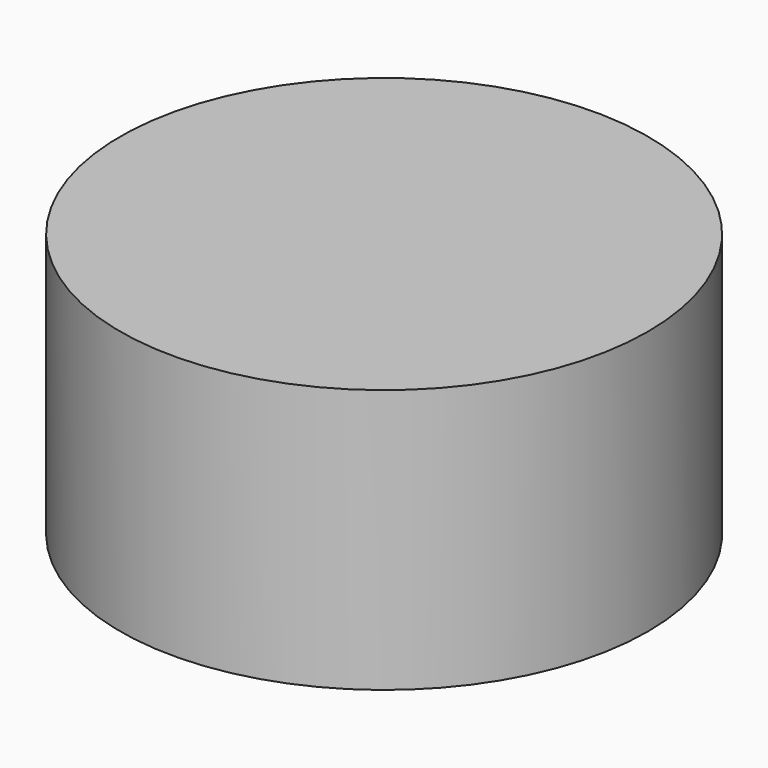
from build123d import *

# Parameters (mm, degrees)
CYLINDER_R      = 10
CYLINDER_DEPTH  = 8
POCKET_DEPTH    = 6
SKETCH001_R     = 10
PAD_DEPTH       = 2
SKETCH002_R     = 3.4
POCKET001_DEPTH = 2


with BuildPart() as part:
    # Cylinder → Cylinder (new body)
    with BuildSketch(Plane.XY):
        Circle(CYLINDER_R)
    extrude(amount=CYLINDER_DEPTH)

    # Sketch (on Face2 of BaseFeature) → Pocket (cut)
    with BuildSketch(Plane.XY.offset(8)):
        Polygon((3.32, -5.750409), (6.64, 0), (3.32, 5.750409), (-3.32, 5.750409), (-6.64, 0), (-3.32, -5.750409), align=None)
    extrude(amount=-POCKET_DEPTH, mode=Mode.SUBTRACT)

    # Sketch001 (on Face2 of Pocket) → Pad (join)
    with BuildSketch(Plane.XY.offset(8)):
        Circle(SKETCH001_R)
    extrude(amount=PAD_DEPTH)

    # Sketch002 (on Face3 of Pad) → Pocket001 (cut)
    with BuildSketch(Plane(origin=(0, 0, 0), x_dir=(1, 0, 0), z_dir=(0, 0, -1))):
        Circle(SKETCH002_R)
    extrude(amount=-POCKET001_DEPTH, mode=Mode.SUBTRACT)


solid = part.part
